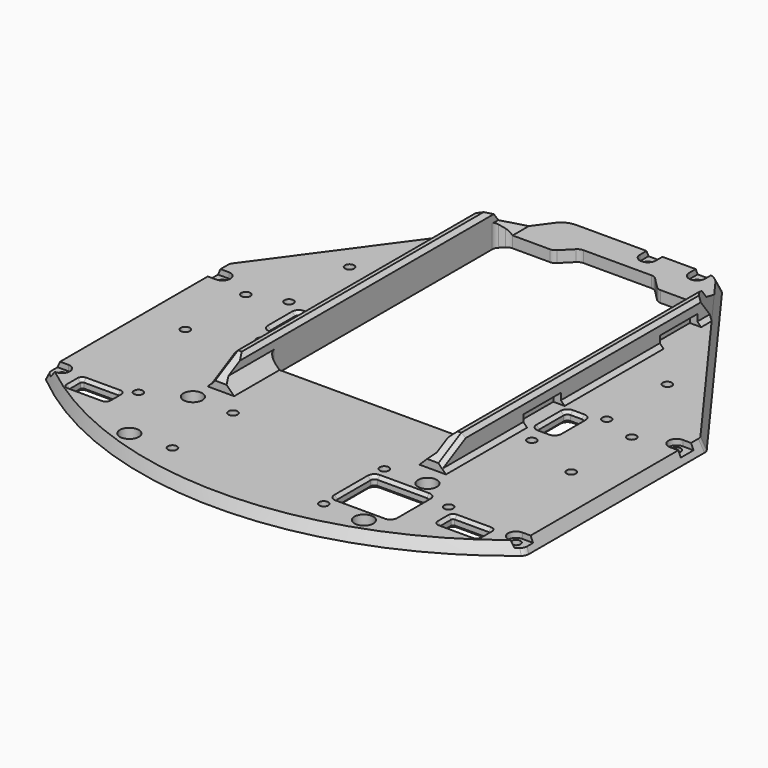
from build123d import *

# Parameters (mm, degrees)
PAD_DEPTH            = 31.5
POCKET_DEPTH         = 9.0010001
SKETCH021_R          = 1.2
POCKET001_DEPTH      = 9.0010001
POCKET001_DEPTH_BACK = 0.0010001
POCKET002_DEPTH      = 96.1855707844
POCKET002_DEPTH_BACK = 45.8164294156
SKETCH026_R          = 1.2
SKETCH026_R_2        = 2.5
POCKET003_DEPTH      = 9.0010001
POCKET004_DEPTH      = 50
POCKET004_DEPTH_BACK = 1
SKETCH053_W          = 3
SKETCH053_H          = 12.4
POCKET025_DEPTH      = 2.75
SKETCH056_R          = 1.2
POCKET028_DEPTH      = 9.0010001
SKETCH057_R          = 1.2
POCKET029_DEPTH      = 9.0010001
POCKET030_DEPTH      = 1.5
POCKET031_DEPTH      = 1.5
POCKET032_DEPTH      = 1.5
SKETCH061_R          = 1.2
POCKET033_DEPTH      = 9.0010001
POCKET034_DEPTH      = 1.5
SKETCH063_R          = 1.2
POCKET035_DEPTH      = 0.0010001
POCKET035_DEPTH_BACK = 9.0010001
POCKET036_DEPTH      = 1.5
POCKET037_DEPTH      = 9.0010001
CHAMFER_SIZE         = 0.8


with BuildPart() as part:
    # Sketch015 → AdditiveLoft section 0
    with BuildSketch(Plane.XY):
        with BuildLine():
            Line((-17.8805334655, 96.1845706844), (17.8805334655, 96.1845706844))
            ThreePointArc((21.9209818872, 94.1298680465), (20.14697486, 95.6413905602), (17.8805334655, 96.1845706844))
            Line((21.9209818872, 94.1298680465), (63.1161797229, 37.6170438353))
            ThreePointArc((63.5000003542, 36.4389248904), (63.4016258085, 37.0584574814), (63.1161797229, 37.6170438353))
            Line((63.5000003542, 36.4389248904), (63.5000003542, -21.679398793))
            ThreePointArc((62.7746117605, -23.2206209584), (63.3095890937, -22.5310962708), (63.5000003542, -21.679398793))
            ThreePointArc((-62.7746110375, -23.2206215563), (4.691e-07, -45.8154293156), (62.7746117605, -23.2206209584))
            ThreePointArc((-63.4999996458, -21.6793993789), (-63.3095883813, -22.5310968653), (-62.7746110375, -23.2206215563))
            Line((-63.4999996458, 36.4389245519), (-63.4999996458, -21.6793993789))
            ThreePointArc((-63.1161790275, 37.6170434789), (-63.4016251036, 37.0584571324), (-63.4999996458, 36.4389245519))
            Line((-21.9209819197, 94.1298680019), (-63.1161790275, 37.6170434789))
            ThreePointArc((-17.8805334655, 96.1845706844), (-20.1469748846, 95.6413905477), (-21.9209819197, 94.1298680019))
        make_face()
    # Sketch016 (on DatumPlane) → AdditiveLoft section 1
    with BuildSketch(Plane.XY.offset(3)):
        with BuildLine():
            Line((-17.213083547, 94.8720711472), (17.213083547, 94.8720711472))
            ThreePointArc((21.253531993, 92.817368476), (19.4795249599, 94.3288910136), (17.213083547, 94.8720711472))
            Line((21.253531993, 92.817368476), (61.803679238, 37.1894433039))
            ThreePointArc((62.1874998596, 36.0113243723), (62.0891253165, 36.6308569555), (61.803679238, 37.1894433039))
            Line((62.1874998596, 36.0113243723), (62.1874998596, -21.0590727613))
            ThreePointArc((61.4521091804, -22.6085124232), (61.9943228506, -21.9166219898), (62.1874998596, -21.0590727613))
            ThreePointArc((-61.452109467, -22.6085121892), (-1.85e-07, -44.5029288528), (61.4521091804, -22.6085124232))
            ThreePointArc((-62.1875001404, -21.0590725321), (-61.994323133, -21.9166217572), (-61.452109467, -22.6085121892))
            Line((-62.1875001404, 36.0113244984), (-62.1875001404, -21.0590725321))
            ThreePointArc((-61.8036795136, 37.189443437), (-62.089125596, 36.6308570857), (-62.1875001404, 36.0113244984))
            Line((-21.2535319801, 92.8173684937), (-61.8036795136, 37.189443437))
            ThreePointArc((-17.213083547, 94.8720711472), (-19.4795249501, 94.3288910186), (-21.2535319801, 92.8173684937))
        make_face()
    loft()

    # Sketch022 → Pad (new body, symmetric)
    with BuildSketch(Plane.YZ):
        Polygon((-1.4770941386, 9), (98.5229058614, 9), (98.5229058614, 3), (-9, 3), (-9, 5), align=None)
    extrude(amount=PAD_DEPTH, both=True)

    # Sketch023 (on DatumPlane) → SubtractiveLoft section 0
    with BuildSketch(Plane.XY.offset(3)):
        with BuildLine():
            Line((-17.2130835241, 94.8720709938), (17.2130835241, 94.8720709938))
            ThreePointArc((21.2535319621, 92.8173683337), (19.4795249309, 94.3288908634), (17.2130835241, 94.8720709938))
            Line((21.2535319621, 92.8173683337), (61.8036793986, 37.1894432177))
            ThreePointArc((62.1875000234, 36.0113242817), (62.0891254795, 36.6308568675), (61.8036793986, 37.1894432177))
            Line((62.1875000234, 36.0113242817), (77.5000000234, 36.0113242817))
            Line((77.5000000234, 36.0113242817), (77.5000000234, 110.1845709938))
            Line((-77.4999999766, 110.1845709938), (77.5000000234, 110.1845709938))
            Line((-77.4999999766, 36.0113242607), (-77.4999999766, 110.1845709938))
            Line((-62.1874999766, 36.0113242607), (-77.4999999766, 36.0113242607))
            ThreePointArc((-61.8036793526, 37.1894431955), (-62.0891254329, 36.6308568458), (-62.1874999766, 36.0113242607))
            Line((-21.2535319642, 92.8173683308), (-61.8036793526, 37.1894431955))
            ThreePointArc((-17.2130835241, 94.8720709938), (-19.4795249325, 94.3288908626), (-21.2535319642, 92.8173683308))
        make_face()
    # Sketch024 (on DatumPlane) → SubtractiveLoft section 1
    with BuildSketch(Plane.XY.offset(9)):
        with BuildLine():
            Line((-15.8781835887, 92.247071176), (15.8781835887, 92.247071176))
            ThreePointArc((19.9186320362, 90.1923685028), (18.1446250027, 91.7038910419), (15.8781835887, 92.247071176))
            Line((19.9186320362, 90.1923685028), (59.1786792078, 36.3342417869))
            ThreePointArc((59.5624998288, 35.1561228562), (59.4641252858, 35.7756554388), (59.1786792078, 36.3342417869))
            Line((59.5624998288, 35.1561228562), (77.4999998288, 35.1561228562))
            Line((77.4999998288, 35.1561228562), (77.4999998288, 110.184571176))
            Line((-77.5000001712, 110.184571176), (77.4999998288, 110.184571176))
            Line((-77.5000001712, 35.15612299), (-77.5000001712, 110.184571176))
            Line((-59.5625001712, 35.15612299), (-77.5000001712, 35.15612299))
            ThreePointArc((-59.1786795439, 36.3342419294), (-59.4641256267, 35.7756555778), (-59.5625001712, 35.15612299))
            Line((-19.9186320205, 90.1923685244), (-59.1786795439, 36.3342419294))
            ThreePointArc((-15.8781835887, 92.247071176), (-18.1446249908, 91.7038910479), (-19.9186320205, 90.1923685244))
        make_face()
    loft(mode=Mode.SUBTRACT)

    # Sketch → Pocket (cut, through all)
    with BuildSketch(Plane.XY):
        with BuildLine():
            Line((-26.9142135624, 81.4142135624), (-25.9142135624, 82.4142135624))
            ThreePointArc((-24.5, 83), (-25.2653668647, 82.847759065), (-25.9142135624, 82.4142135624))
            Line((-14.6568542495, 83), (-24.5, 83))
            ThreePointArc((-14.6568542495, 83), (-13.8914873848, 83.152240935), (-13.2426406871, 83.5857864376))
            Line((-10.4142135624, 86.4142135624), (-13.2426406871, 83.5857864376))
            ThreePointArc((-9, 87), (-9.7653668647, 86.847759065), (-10.4142135624, 86.4142135624))
            Line((-9, 87), (9, 87))
            ThreePointArc((10.4142135624, 86.4142135624), (9.7653668647, 86.847759065), (9, 87))
            Line((10.4142135624, 86.4142135624), (13.2426406871, 83.5857864376))
            ThreePointArc((13.2426406871, 83.5857864376), (13.8914873848, 83.152240935), (14.6568542495, 83))
            Line((24.5, 83), (14.6568542495, 83))
            ThreePointArc((25.9142135624, 82.4142135624), (25.2653668647, 82.847759065), (24.5, 83))
            Line((25.9142135624, 82.4142135624), (26.9142135624, 81.4142135624))
            ThreePointArc((27.5, 80), (27.347759065, 80.7653668647), (26.9142135624, 81.4142135624))
            Line((27.5, 8), (27.5, 80))
            ThreePointArc((25.5, 6), (26.9142135624, 6.5857864376), (27.5, 8))
            Line((-25.5, 6), (25.5, 6))
            ThreePointArc((-27.5, 8), (-26.9142135624, 6.5857864376), (-25.5, 6))
            Line((-27.5, 80), (-27.5, 8))
            ThreePointArc((-26.9142135624, 81.4142135624), (-27.347759065, 80.7653668647), (-27.5, 80))
        make_face()
    extrude(amount=POCKET_DEPTH, mode=Mode.SUBTRACT)

    # Sketch021 → Pocket001 (cut, two sides)
    with BuildSketch(Plane.XY) as pocket001_sk:
        with Locations((16.5, 92.6845740025)):
            Circle(SKETCH021_R)
        with Locations((59.9999968082, 31.5)):
            Circle(SKETCH021_R)
        with Locations((-59.9999968082, 31.5)):
            Circle(SKETCH021_R)
        with Locations((-59.9999968082, -21.5)):
            Circle(SKETCH021_R)
        with Locations((59.9999968082, -21.5)):
            Circle(SKETCH021_R)
        with Locations((3.5, 92.6845740025)):
            Circle(SKETCH021_R)
    extrude(amount=POCKET001_DEPTH, mode=Mode.SUBTRACT)
    extrude(pocket001_sk.sketch, amount=-POCKET001_DEPTH_BACK, mode=Mode.SUBTRACT)

    # Sketch025 → Pocket002 (cut, two sides)
    with BuildSketch(Plane.XZ) as pocket002_sk:
        Polygon((-24.5, 3), (24.5, 3), (27.5, 6), (27.5, 8), (28.5, 9), (29.5, 9), (30.5, 8), (30.5, 4), (31.5, 3), (31.5, 15), (-31.5, 15), (-31.5, 3), (-30.5, 4), (-30.5, 8), (-29.5, 9), (-28.5, 9), (-27.5, 8), (-27.5, 6), align=None)
    extrude(amount=-POCKET002_DEPTH, mode=Mode.SUBTRACT)
    extrude(pocket002_sk.sketch, amount=POCKET002_DEPTH_BACK, mode=Mode.SUBTRACT)

    # Sketch026 → Pocket003 (cut, through all)
    with BuildSketch(Plane.XY):
        with Locations((20, -15)):
            Circle(SKETCH026_R)
        with Locations((20, -35)):
            Circle(SKETCH026_R)
        with Locations((-20, -35)):
            Circle(SKETCH026_R)
        with Locations((-20, -15)):
            Circle(SKETCH026_R)
        with Locations((-31, -14.5)):
            Circle(SKETCH026_R_2)
        with Locations((31, -14.5)):
            Circle(SKETCH026_R_2)
        with Locations((31, -35.5)):
            Circle(SKETCH026_R_2)
        with Locations((-31, -35.5)):
            Circle(SKETCH026_R_2)
        with BuildLine():
            Line((21, -18.5), (34, -18.5))
            ThreePointArc((35, -19.5), (34.7071067812, -18.7928932188), (34, -18.5))
            Line((35, -19.5), (35, -30.5))
            ThreePointArc((34, -31.5), (34.7071067812, -31.2071067812), (35, -30.5))
            Line((34, -31.5), (21, -31.5))
            ThreePointArc((20, -30.5), (20.2928932188, -31.2071067812), (21, -31.5))
            Line((20, -30.5), (20, -19.5))
            ThreePointArc((21, -18.5), (20.2928932188, -18.7928932188), (20, -19.5))
        make_face()
    extrude(amount=POCKET003_DEPTH, mode=Mode.SUBTRACT)

    # Sketch027 (on DatumPlane) → Pocket004 (cut, two sides)
    with BuildSketch(Plane(origin=(0, -9, 5), x_dir=(1, 0, 0), z_dir=(0, -0.8829475929, -0.4694715628))) as pocket004_sk:
        Polygon((-29.5, 0), (-30.5, -1), (-30.5, 5), (30.5, 5), (30.5, -1), (29.5, 0), (28.5, 0), (-28.5, 0), align=None)
    extrude(amount=-POCKET004_DEPTH, mode=Mode.SUBTRACT)
    extrude(pocket004_sk.sketch, amount=POCKET004_DEPTH_BACK, mode=Mode.SUBTRACT)

    # Sketch053 (on DatumPlane) → Pocket025 (cut)
    with BuildSketch(Plane.XY.offset(3)):
        with Locations((30, 24)):
            Rectangle(SKETCH053_W, SKETCH053_H)
        with Locations((-30, 24)):
            Rectangle(SKETCH053_W, SKETCH053_H)
        with Locations((30, 69.1)):
            Rectangle(SKETCH053_W, SKETCH053_H)
        with Locations((-30, 69.1)):
            Rectangle(SKETCH053_W, SKETCH053_H)
    extrude(amount=POCKET025_DEPTH, mode=Mode.SUBTRACT)

    # Sketch056 → Pocket028 (cut, through all)
    with BuildSketch(Plane.XY):
        with Locations((-41, -20)):
            Circle(SKETCH056_R)
        with Locations((41, -20)):
            Circle(SKETCH056_R)
    extrude(amount=POCKET028_DEPTH, mode=Mode.SUBTRACT)

    # Sketch057 → Pocket029 (cut, through all)
    with BuildSketch(Plane.XY):
        with Locations((-35.8, 14)):
            Circle(SKETCH057_R)
        with Locations((35.8, 14)):
            Circle(SKETCH057_R)
    extrude(amount=POCKET029_DEPTH, mode=Mode.SUBTRACT)

    # Sketch058 → Pocket030 (cut)
    with BuildSketch(Plane.XY):
        Polygon((-22.4826061575, -15), (-21.2413030788, -17.15), (-18.7586969212, -17.15), (-17.5173938425, -15), (-18.7586969212, -12.85), (-21.2413030788, -12.85), align=None)
        Polygon((-22.4826061575, -35), (-21.2413030788, -37.15), (-18.7586969212, -37.15), (-17.5173938425, -35), (-18.7586969212, -32.85), (-21.2413030788, -32.85), align=None)
        Polygon((22.4826061575, -35), (21.2413030788, -32.85), (18.7586969212, -32.85), (17.5173938425, -35), (18.7586969212, -37.15), (21.2413030788, -37.15), align=None)
        Polygon((22.4826061575, -15), (21.2413030788, -12.85), (18.7586969212, -12.85), (17.5173938425, -15), (18.7586969212, -17.15), (21.2413030788, -17.15), align=None)
    extrude(amount=POCKET030_DEPTH, mode=Mode.SUBTRACT)

    # Sketch059 → Pocket031 (cut)
    with BuildSketch(Plane.XY):
        Polygon((-38.2826061575, 14), (-37.0413030788, 11.85), (-34.5586969213, 11.85), (-33.3173938425, 14), (-34.5586969213, 16.15), (-37.0413030787, 16.15), align=None)
        Polygon((38.2826061575, 14), (37.0413030787, 16.15), (34.5586969213, 16.15), (33.3173938425, 14), (34.5586969213, 11.85), (37.0413030787, 11.85), align=None)
    extrude(amount=POCKET031_DEPTH, mode=Mode.SUBTRACT)

    # Sketch060 → Pocket032 (cut)
    with BuildSketch(Plane.XY):
        Polygon((-43.4826061575, -20), (-42.2413030788, -22.15), (-39.7586969212, -22.15), (-38.5173938425, -20), (-39.7586969212, -17.85), (-42.2413030788, -17.85), align=None)
        Polygon((43.4826061575, -20), (42.2413030788, -17.85), (39.7586969212, -17.85), (38.5173938425, -20), (39.7586969212, -22.15), (42.2413030788, -22.15), align=None)
    extrude(amount=POCKET032_DEPTH, mode=Mode.SUBTRACT)

    # Sketch061 → Pocket033 (cut, through all)
    with BuildSketch(Plane.XY):
        with Locations((-41, -20)):
            Circle(SKETCH061_R)
        with Locations((41, -20)):
            Circle(SKETCH061_R)
        with BuildLine():
            Line((-53.5, -22.4), (-44.5, -22.4))
            ThreePointArc((-44, -22.9), (-44.1464466094, -22.5464466094), (-44.5, -22.4))
            Line((-44, -22.9), (-44, -26.4))
            ThreePointArc((-44.5, -26.9), (-44.1464466094, -26.7535533906), (-44, -26.4))
            Line((-44.5, -26.9), (-53.5, -26.9))
            ThreePointArc((-54, -26.4), (-53.8535533906, -26.7535533906), (-53.5, -26.9))
            Line((-54, -26.4), (-54, -22.9))
            ThreePointArc((-53.5, -22.4), (-53.8535533906, -22.5464466094), (-54, -22.9))
        make_face()
        with BuildLine():
            Line((44.5, -22.4), (53.5, -22.4))
            ThreePointArc((54, -22.9), (53.8535533906, -22.5464466094), (53.5, -22.4))
            Line((54, -22.9), (54, -26.4))
            ThreePointArc((53.5, -26.9), (53.8535533906, -26.7535533906), (54, -26.4))
            Line((53.5, -26.9), (44.5, -26.9))
            ThreePointArc((44, -26.4), (44.1464466094, -26.7535533906), (44.5, -26.9))
            Line((44, -26.4), (44, -22.9))
            ThreePointArc((44.5, -22.4), (44.1464466094, -22.5464466094), (44, -22.9))
        make_face()
    extrude(amount=POCKET033_DEPTH, mode=Mode.SUBTRACT)

    # Sketch062 (on DatumPlane) → Pocket034 (cut)
    with BuildSketch(Plane.XY.offset(3)):
        with BuildLine():
            ThreePointArc((1.4, 92.6845763632), (3.5, 90.5845763632), (5.6, 92.6845763632))
            Line((5.6, 92.6845763632), (5.6, 110.1845763632))
            ThreePointArc((5.6, 110.1845763632), (3.5, 112.2845763632), (1.4, 110.1845763632))
            Line((1.4, 92.6845763632), (1.4, 110.1845763632))
        make_face()
        with BuildLine():
            ThreePointArc((14.4, 92.6845763632), (16.5, 90.5845763632), (18.6, 92.6845763632))
            Line((18.6, 92.6845763632), (18.6, 110.1845763632))
            ThreePointArc((18.6, 110.1845763632), (16.5, 112.2845763632), (14.4, 110.1845763632))
            Line((14.4, 92.6845763632), (14.4, 110.1845763632))
        make_face()
        with BuildLine():
            ThreePointArc((59.9999942854, -19.4), (57.8999942854, -21.5), (59.9999942854, -23.6))
            Line((59.9999942854, -23.6), (77.4999942854, -23.6))
            ThreePointArc((77.4999942854, -23.6), (79.5999942854, -21.5), (77.4999942854, -19.4))
            Line((59.9999942854, -19.4), (77.4999942854, -19.4))
        make_face()
        with BuildLine():
            ThreePointArc((59.9999942854, 33.6), (57.8999942854, 31.5), (59.9999942854, 29.4))
            Line((59.9999942854, 29.4), (77.4999942854, 29.4))
            ThreePointArc((77.4999942854, 29.4), (79.5999942854, 31.5), (77.4999942854, 33.6))
            Line((59.9999942854, 33.6), (77.4999942854, 33.6))
        make_face()
        with BuildLine():
            ThreePointArc((-59.9999942854, 29.4), (-57.8999942854, 31.5), (-59.9999942854, 33.6))
            Line((-59.9999942854, 33.6), (-77.5000057146, 33.6))
            ThreePointArc((-77.5000057146, 33.6), (-79.6000057146, 31.5), (-77.5000057146, 29.4))
            Line((-59.9999942854, 29.4), (-77.5000057146, 29.4))
        make_face()
        with BuildLine():
            ThreePointArc((-59.9999942854, -23.6), (-57.8999942854, -21.5), (-59.9999942854, -19.4))
            Line((-59.9999942854, -19.4), (-77.5000057146, -19.4))
            ThreePointArc((-77.5000057146, -19.4), (-79.6000057146, -21.5), (-77.5000057146, -23.6))
            Line((-59.9999942854, -23.6), (-77.5000057146, -23.6))
        make_face()
    extrude(amount=-POCKET034_DEPTH, mode=Mode.SUBTRACT)

    # Sketch063 → Pocket035 (cut, two sides)
    with BuildSketch(Plane.XY) as pocket035_sk:
        with Locations((42, 51)):
            Circle(SKETCH063_R)
        with Locations((42, 31)):
            Circle(SKETCH063_R)
        with Locations((51, 28)):
            Circle(SKETCH063_R)
        with Locations((51, 8)):
            Circle(SKETCH063_R)
        with Locations((-42, 51)):
            Circle(SKETCH063_R)
        with Locations((-51, 28)):
            Circle(SKETCH063_R)
        with Locations((-51, 8)):
            Circle(SKETCH063_R)
        with Locations((-42, 31)):
            Circle(SKETCH063_R)
    extrude(amount=-POCKET035_DEPTH, mode=Mode.SUBTRACT)
    extrude(pocket035_sk.sketch, amount=POCKET035_DEPTH_BACK, mode=Mode.SUBTRACT)

    # Sketch064 → Pocket036 (cut)
    with BuildSketch(Plane.XY):
        Polygon((44.4826061575, 51), (43.2413030788, 53.15), (40.7586969212, 53.15), (39.5173938425, 51), (40.7586969212, 48.85), (43.2413030788, 48.85), align=None)
        Polygon((44.4826061575, 31), (43.2413030788, 33.15), (40.7586969212, 33.15), (39.5173938425, 31), (40.7586969212, 28.85), (43.2413030788, 28.85), align=None)
        Polygon((53.4826061575, 28), (52.2413030788, 30.15), (49.7586969212, 30.15), (48.5173938425, 28), (49.7586969212, 25.85), (52.2413030788, 25.85), align=None)
        Polygon((53.4826061575, 8), (52.2413030788, 10.15), (49.7586969212, 10.15), (48.5173938425, 8), (49.7586969212, 5.85), (52.2413030788, 5.85), align=None)
        Polygon((-48.5173938425, 8), (-49.7586969212, 10.15), (-52.2413030788, 10.15), (-53.4826061575, 8), (-52.2413030788, 5.85), (-49.7586969212, 5.85), align=None)
        Polygon((-48.5173938425, 28), (-49.7586969212, 30.15), (-52.2413030788, 30.15), (-53.4826061575, 28), (-52.2413030788, 25.85), (-49.7586969212, 25.85), align=None)
        Polygon((-39.5173938425, 31), (-40.7586969212, 33.15), (-43.2413030788, 33.15), (-44.4826061575, 31), (-43.2413030788, 28.85), (-40.7586969212, 28.85), align=None)
        Polygon((-39.5173938425, 51), (-40.7586969212, 53.15), (-43.2413030788, 53.15), (-44.4826061575, 51), (-43.2413030788, 48.85), (-40.7586969212, 48.85), align=None)
    extrude(amount=POCKET036_DEPTH, mode=Mode.SUBTRACT)

    # Sketch065 → Pocket037 (cut, through all)
    with BuildSketch(Plane.XY):
        with BuildLine():
            Line((34, 29), (37, 29))
            ThreePointArc((38, 28), (37.7071067812, 28.7071067812), (37, 29))
            Line((38, 28), (38, 20))
            ThreePointArc((37, 19), (37.7071067812, 19.2928932188), (38, 20))
            Line((37, 19), (34, 19))
            ThreePointArc((33, 20), (33.2928932188, 19.2928932188), (34, 19))
            Line((33, 20), (33, 28))
            ThreePointArc((34, 29), (33.2928932188, 28.7071067812), (33, 28))
        make_face()
        with BuildLine():
            Line((-37, 29), (-34, 29))
            ThreePointArc((-33, 28), (-33.2928932188, 28.7071067812), (-34, 29))
            Line((-33, 28), (-33, 20))
            ThreePointArc((-34, 19), (-33.2928932188, 19.2928932188), (-33, 20))
            Line((-34, 19), (-37, 19))
            ThreePointArc((-38, 20), (-37.7071067812, 19.2928932188), (-37, 19))
            Line((-38, 20), (-38, 28))
            ThreePointArc((-37, 29), (-37.7071067812, 28.7071067812), (-38, 28))
        make_face()
    extrude(amount=POCKET037_DEPTH, mode=Mode.SUBTRACT)

    # Chamfer
    chamfer_edges = [part.edges().sort_by_distance(p)[0] for p in [
        (35, -25, 3),
        (49, -22.4, 3),
        (38, 24, 3),
        (-33, 24, 3),
        (-49, -22.4, 3),
        (35, -25, 0),
        (49, -26.9, 0),
        (-49, -26.9, 0),
        (38, 24, 0),
        (-33, 24, 0),
    ]]
    chamfer(chamfer_edges, length=CHAMFER_SIZE)


solid = part.part
